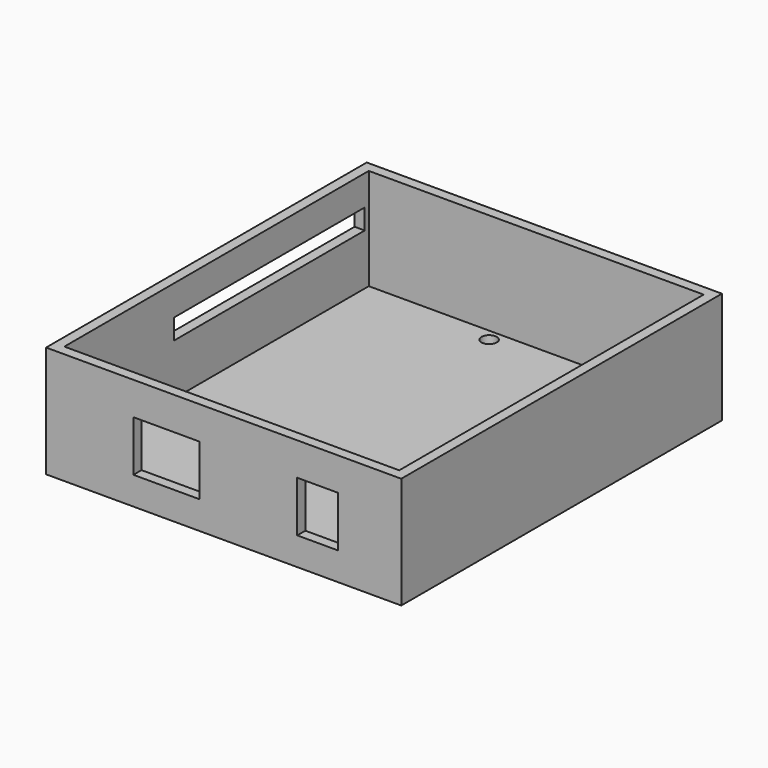
from build123d import *

# Parameters (mm, degrees)
F0_W     = 70
F0_H     = 22
F1_DEPTH = 78.994
F2_T     = -2
F3_W     = 13
F3_H     = 10
F3_W_2   = 8
F4_DEPTH = 25.4
F5_W     = 47
F5_H     = 4
F6_DEPTH = 25.4
F8_D     = 3


with BuildPart() as f1:
    # F0 (on Front) → F1 (new body)
    with BuildSketch(Plane.XZ):
        Rectangle(F0_W, F0_H)
    extrude(amount=F1_DEPTH)

    # F2
    f2_openings = [f1.faces().sort_by_distance(p)[0] for p in [
        (0, -39.497, 11),
    ]]
    offset(amount=F2_T, openings=f2_openings)

    # F3 (on face) → F4 (cut)
    with BuildSketch(Plane.XZ.offset(78.994)):
        with Locations((-11.289247, -0.486001)):
            Rectangle(F3_W, F3_H)
        with Locations((18.5, -0.492737)):
            Rectangle(F3_W_2, F3_H)
    extrude(amount=-F4_DEPTH, mode=Mode.SUBTRACT)

    # F5 (on face) → F6 (cut)
    with BuildSketch(Plane(origin=(-35, 0, 0), x_dir=(0, -1, 0), z_dir=(-1, 0, 0))):
        with Locations((26.5, 3.065218)):
            Rectangle(F5_W, F5_H)
    extrude(amount=-F6_DEPTH, mode=Mode.SUBTRACT)

    # F8 (through all)
    with Locations(Plane(origin=(0, 0, -11), x_dir=(1, 0, 0), z_dir=(0, 0, -1))):
        with Locations((-7.398465, 4.346834), (20.601535, 4.346834), (24.640625, 56.574557), (-22.482722, 56.045765)):
            Hole(F8_D / 2)


solid = f1.part
